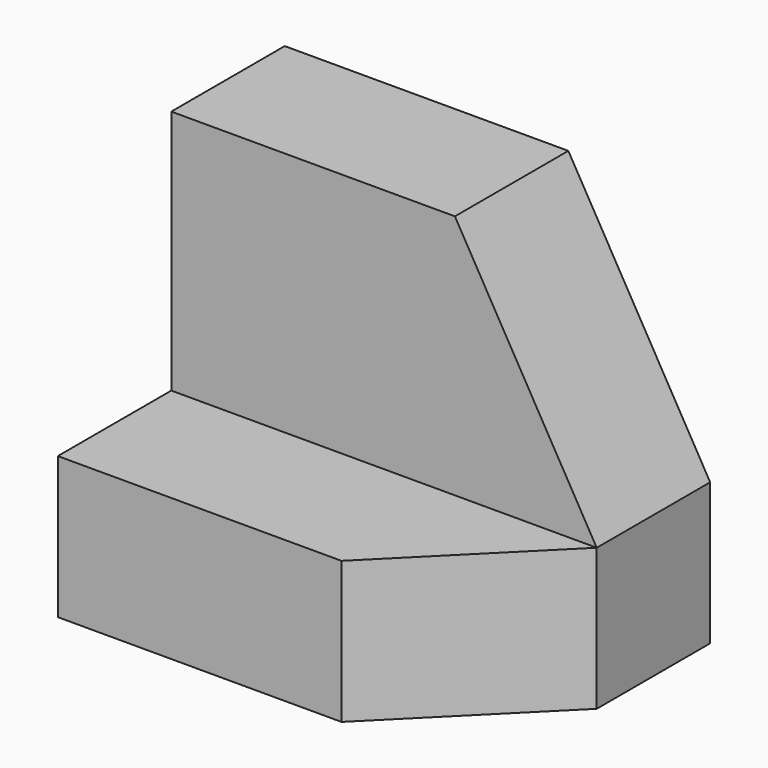
from build123d import *

# Parameters (mm, degrees)
F0_W     = 38.1
F0_H     = 12.7
F1_DEPTH = 12.7
F3_DEPTH = 25.4
F4_W     = 38.1
F4_H     = 12.7
F5_DEPTH = 12.7


with BuildPart() as f1:
    # F0 (on Front) → F1 (new body)
    with BuildSketch(Plane.XZ):
        with Locations((-19.05, 6.35)):
            Rectangle(F0_W, F0_H)
    extrude(amount=F1_DEPTH)

    # F2 (on face) → F3 (cut)
    with BuildSketch(Plane.XY.offset(12.7)):
        Polygon((0, -12.7), (0, 0), (-12.7, -12.7), align=None)
    extrude(amount=-F3_DEPTH, mode=Mode.SUBTRACT)

    # F4 (on face) → F5 (join)
    with BuildSketch(Plane(origin=(0, 0, 0), x_dir=(-1, 0, 0), z_dir=(0, 1, 0))):
        with Locations((19.05, 6.35)):
            Rectangle(F4_W, F4_H)
        Polygon((0, 12.7), (38.1, 12.7), (38.1, 34.697045), (12.7, 34.697045), align=None)
    extrude(amount=F5_DEPTH)


solid = f1.part
